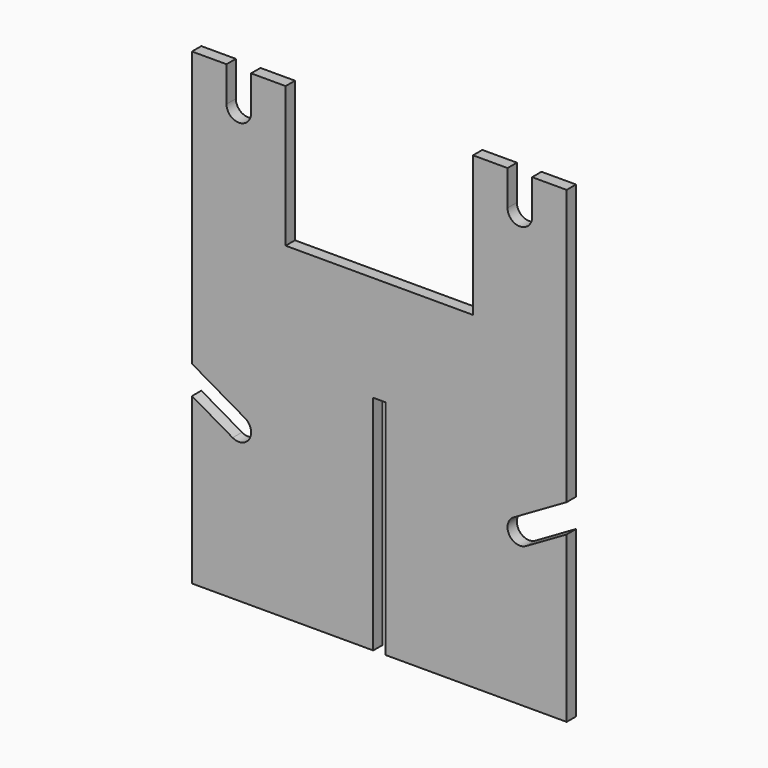
from build123d import *

# Parameters (mm, degrees)
F1_DEPTH = 6.35


with BuildPart() as f1:
    # F0 (on Front) → F1 (new body, symmetric)
    with BuildSketch(Plane.XZ):
        with BuildLine():
            Line((-165.735, 254), (-203.2, 254))
            Line((-203.2, 254), (-203.2, -44.172675))
            Line((-203.2, -44.172675), (-145.7325, -77.351551))
            ThreePointArc((-145.7325, -77.351551), (-140.851551, -95.5675), (-159.0675, -100.448449))
            Line((-159.0675, -100.448449), (-203.2, -74.968538))
            Line((-203.2, -74.968538), (-203.2, -254))
            Line((-203.2, -254), (-184.404, -254))
            Line((-184.404, -254), (-171.196, -254))
            Line((-171.196, -254), (-170.47146, -254))
            Line((-170.47146, -254), (-6.604, -254))
            Line((-6.604, -254), (-6.604, -12.7))
            Line((-6.604, -12.7), (6.604, -12.7))
            Line((6.604, -12.7), (6.604, -254))
            Line((6.604, -254), (171.196, -254))
            Line((171.196, -254), (184.404, -254))
            Line((184.404, -254), (188.53423, -254))
            Line((188.53423, -254), (203.2, -254))
            Line((203.2, -254), (203.2, -74.968538))
            Line((203.2, -74.968538), (159.0675, -100.448449))
            ThreePointArc((159.0675, -100.448449), (140.851551, -95.5675), (145.7325, -77.351551))
            Line((145.7325, -77.351551), (203.2, -44.172675))
            Line((203.2, -44.172675), (203.2, 254))
            Line((203.2, 254), (165.735, 254))
            Line((165.735, 254), (165.735, 215.9))
            ThreePointArc((165.735, 215.9), (152.4, 202.565), (139.065, 215.9))
            Line((139.065, 215.9), (139.065, 254))
            Line((139.065, 254), (101.6, 254))
            Line((101.6, 254), (101.6, 101.6))
            Line((101.6, 101.6), (0, 101.6))
            Line((0, 101.6), (-101.6, 101.6))
            Line((-101.6, 101.6), (-101.6, 254))
            Line((-101.6, 254), (-139.065, 254))
            Line((-139.065, 254), (-139.065, 215.9))
            ThreePointArc((-139.065, 215.9), (-152.4, 202.565), (-165.735, 215.9))
            Line((-165.735, 215.9), (-165.735, 254))
        make_face()
    extrude(amount=F1_DEPTH, both=True)


solid = f1.part
